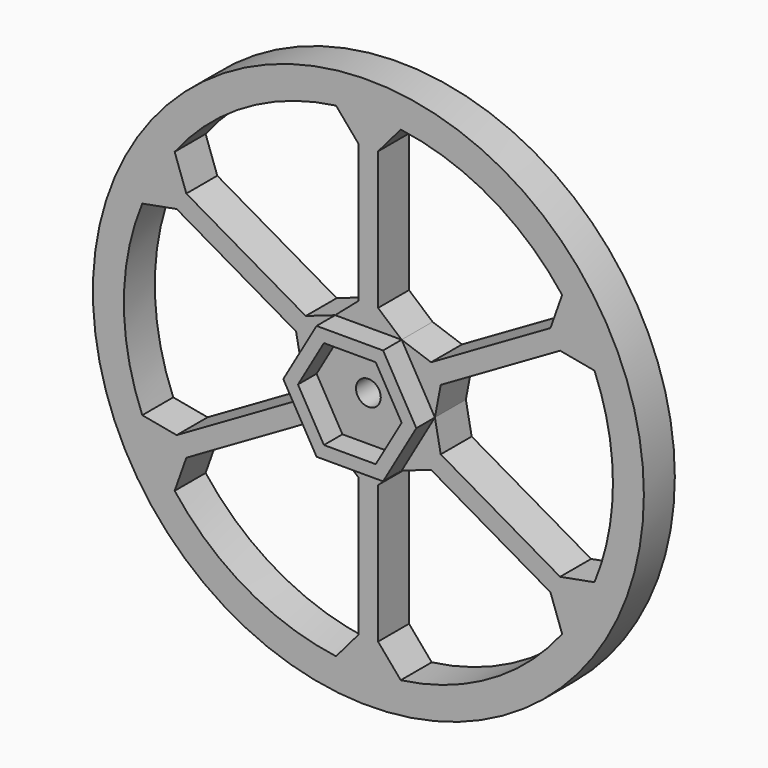
from build123d import *

# Parameters (mm, degrees)
F0_R     = 45.212
F0_R_2   = 2.032
F1_DEPTH = 6.35
F2_DEPTH = 10.16


with BuildPart() as f1:
    # F0 (on Front) → F1 (new body)
    with BuildSketch(Plane.XZ):
        Circle(F0_R)
        with BuildLine():
            ThreePointArc((37.1053751064, 15.2894918888), (39.3680729638, 7.7930902161), (40.132, 0))
            ThreePointArc((40.132, 0), (39.3680729638, -7.7930902161), (37.1053751064, -15.2894918888))
            ThreePointArc((37.1053751064, -15.2894918888), (34.7553315047, -20.066), (31.7937759398, -24.4894515147))
            ThreePointArc((31.7937759398, -24.4894515147), (20.066, -34.7553315047), (5.3115991666, -39.7789434034))
            ThreePointArc((5.3115991666, -39.7789434034), (0, -40.132), (-5.3115991666, -39.7789434034))
            ThreePointArc((-5.3115991666, -39.7789434034), (-20.066, -34.7553315047), (-31.7937759398, -24.4894515147))
            ThreePointArc((-31.7937759398, -24.4894515147), (-34.7553315047, -20.066), (-37.1053751064, -15.2894918888))
            ThreePointArc((-37.1053751064, -15.2894918888), (-40.132, 0), (-37.1053751064, 15.2894918888))
            ThreePointArc((-37.1053751064, 15.2894918888), (-34.7553315047, 20.066), (-31.7937759398, 24.4894515147))
            ThreePointArc((-31.7937759398, 24.4894515147), (-20.066, 34.7553315047), (-5.3115991666, 39.7789434034))
            ThreePointArc((-5.3115991666, 39.7789434034), (0, 40.132), (5.3115991666, 39.7789434034))
            ThreePointArc((5.3115991666, 39.7789434034), (20.066, 34.7553315047), (31.7937759398, 24.4894515147))
            ThreePointArc((31.7937759398, 24.4894515147), (34.7553315047, 20.066), (37.1053751064, 15.2894918888))
        make_face(mode=Mode.SUBTRACT)
        Polygon((4.2527620829, -7.366), (8.5055241657, 0), (4.2527620829, 7.366), (-4.2527620829, 7.366), (-8.5055241657, 0), (-4.2527620829, -7.366), align=None)
        Circle(F0_R_2, mode=Mode.SUBTRACT)
        with BuildLine():
            Line((1.5875, 35.4173183441), (5.3115991666, 39.7789434034))
            ThreePointArc((5.3115991666, 39.7789434034), (0, 40.132), (-5.3115991666, 39.7789434034))
            Line((-5.3115991666, 39.7789434034), (-1.5875, 35.4173183441))
            Line((-1.5875, 35.4173183441), (-1.5875, 12.7893453464))
            Line((-1.5875, 12.7893453464), (-5.4585231293, 9.4544393942))
            Line((-5.4585231293, 9.4544393942), (5.4585231293, 9.4544393942))
            Line((5.4585231293, 9.4544393942), (1.5875, 12.7893453464))
            Line((1.5875, 12.7893453464), (1.5875, 35.4173183441))
        make_face()
        with BuildLine():
            Line((-29.8785474199, 19.0834745006), (-31.7937759398, 24.4894515147))
            ThreePointArc((-31.7937759398, 24.4894515147), (-34.7553315047, 20.066), (-37.1053751064, 15.2894918888))
            Line((-37.1053751064, 15.2894918888), (-31.4660474199, 16.3338438436))
            Line((-31.4660474199, 16.3338438436), (-11.8696479677, 5.0198573447))
            Line((-11.8696479677, 5.0198573447), (-10.9170462585, 0))
            Line((-10.9170462585, 0), (-5.4585231293, 9.4544393942))
            Line((-5.4585231293, 9.4544393942), (-10.2821479677, 7.7694880017))
            Line((-10.2821479677, 7.7694880017), (-29.8785474199, 19.0834745006))
        make_face()
        with BuildLine():
            ThreePointArc((-37.1053751064, -15.2894918888), (-34.7553315047, -20.066), (-31.7937759398, -24.4894515147))
            Line((-31.7937759398, -24.4894515147), (-29.8785474199, -19.0834745006))
            Line((-29.8785474199, -19.0834745006), (-10.2821479677, -7.7694880017))
            Line((-10.2821479677, -7.7694880017), (-5.4585231293, -9.4544393942))
            Line((-5.4585231293, -9.4544393942), (-10.9170462585, 0))
            Line((-10.9170462585, 0), (-11.8696479677, -5.0198573447))
            Line((-11.8696479677, -5.0198573447), (-31.4660474199, -16.3338438436))
            Line((-31.4660474199, -16.3338438436), (-37.1053751064, -15.2894918888))
        make_face()
        with BuildLine():
            ThreePointArc((-5.3115991666, -39.7789434034), (0, -40.132), (5.3115991666, -39.7789434034))
            Line((5.3115991666, -39.7789434034), (1.5875, -35.4173183441))
            Line((1.5875, -35.4173183441), (1.5875, -12.7893453464))
            Line((1.5875, -12.7893453464), (5.4585231293, -9.4544393942))
            Line((5.4585231293, -9.4544393942), (-5.4585231293, -9.4544393942))
            Line((-5.4585231293, -9.4544393942), (-1.5875, -12.7893453464))
            Line((-1.5875, -12.7893453464), (-1.5875, -35.4173183441))
            Line((-1.5875, -35.4173183441), (-5.3115991666, -39.7789434034))
        make_face()
        with BuildLine():
            ThreePointArc((31.7937759398, -24.4894515147), (34.7553315047, -20.066), (37.1053751064, -15.2894918888))
            Line((37.1053751064, -15.2894918888), (31.4660474199, -16.3338438436))
            Line((31.4660474199, -16.3338438436), (11.8696479677, -5.0198573447))
            Line((11.8696479677, -5.0198573447), (10.9170462585, 0))
            Line((10.9170462585, 0), (5.4585231293, -9.4544393942))
            Line((5.4585231293, -9.4544393942), (10.2821479677, -7.7694880017))
            Line((10.2821479677, -7.7694880017), (29.8785474199, -19.0834745006))
            Line((29.8785474199, -19.0834745006), (31.7937759398, -24.4894515147))
        make_face()
        with BuildLine():
            Line((31.4660474199, 16.3338438436), (37.1053751064, 15.2894918888))
            ThreePointArc((37.1053751064, 15.2894918888), (34.7553315047, 20.066), (31.7937759398, 24.4894515147))
            Line((31.7937759398, 24.4894515147), (29.8785474199, 19.0834745006))
            Line((29.8785474199, 19.0834745006), (10.2821479677, 7.7694880017))
            Line((10.2821479677, 7.7694880017), (5.4585231293, 9.4544393942))
            Line((5.4585231293, 9.4544393942), (10.9170462585, 0))
            Line((10.9170462585, 0), (11.8696479677, 5.0198573447))
            Line((11.8696479677, 5.0198573447), (31.4660474199, 16.3338438436))
        make_face()
        Polygon((-4.2527620829, 7.366), (-5.4585231293, 9.4544393942), (-10.9170462585, 0), (-8.5055241657, 0), align=None)
        Polygon((-10.9170462585, 0), (-5.4585231293, -9.4544393942), (-4.2527620829, -7.366), (-8.5055241657, 0), align=None)
        Polygon((-5.4585231293, -9.4544393942), (5.4585231293, -9.4544393942), (4.2527620829, -7.366), (-4.2527620829, -7.366), align=None)
        Polygon((5.4585231293, -9.4544393942), (10.9170462585, 0), (8.5055241657, 0), (4.2527620829, -7.366), align=None)
        Polygon((8.5055241657, 0), (10.9170462585, 0), (5.4585231293, 9.4544393942), (4.2527620829, 7.366), align=None)
        Polygon((4.2527620829, 7.366), (5.4585231293, 9.4544393942), (-5.4585231293, 9.4544393942), (-4.2527620829, 7.366), align=None)
    extrude(amount=F1_DEPTH)

    # F0 (on Front) → F2 (join)
    with BuildSketch(Plane.XZ):
        Polygon((-10.9170462585, 0), (-5.4585231293, -9.4544393942), (-4.2527620829, -7.366), (-8.5055241657, 0), align=None)
        Polygon((-5.4585231293, -9.4544393942), (5.4585231293, -9.4544393942), (4.2527620829, -7.366), (-4.2527620829, -7.366), align=None)
        Polygon((5.4585231293, -9.4544393942), (10.9170462585, 0), (8.5055241657, 0), (4.2527620829, -7.366), align=None)
        Polygon((8.5055241657, 0), (10.9170462585, 0), (5.4585231293, 9.4544393942), (4.2527620829, 7.366), align=None)
        Polygon((4.2527620829, 7.366), (5.4585231293, 9.4544393942), (-5.4585231293, 9.4544393942), (-4.2527620829, 7.366), align=None)
        Polygon((-4.2527620829, 7.366), (-5.4585231293, 9.4544393942), (-10.9170462585, 0), (-8.5055241657, 0), align=None)
    extrude(amount=F2_DEPTH)


solid = f1.part
